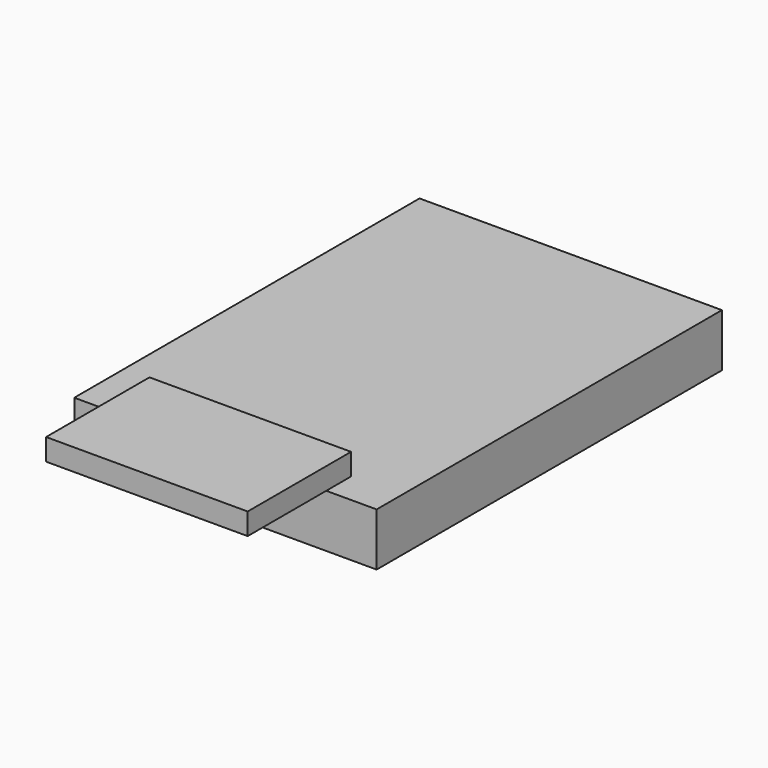
from build123d import *

# Parameters (mm, degrees)
SKETCH_W     = 23.4
SKETCH_H     = 33.4
PAD_DEPTH    = 4.1
SKETCH001_W  = 15.6
SKETCH001_H  = 10
PAD001_DEPTH = 1.68


with BuildPart() as part:
    # Sketch → Pad (new body)
    with BuildSketch(Plane.XY):
        Rectangle(SKETCH_W, SKETCH_H)
    extrude(amount=PAD_DEPTH)

    # Sketch001 → Pad001 (new body)
    with BuildSketch(Plane.XY.offset(4.1)):
        with Locations((0, -19.3)):
            Rectangle(SKETCH001_W, SKETCH001_H)
    extrude(amount=PAD001_DEPTH)


solid = part.part
